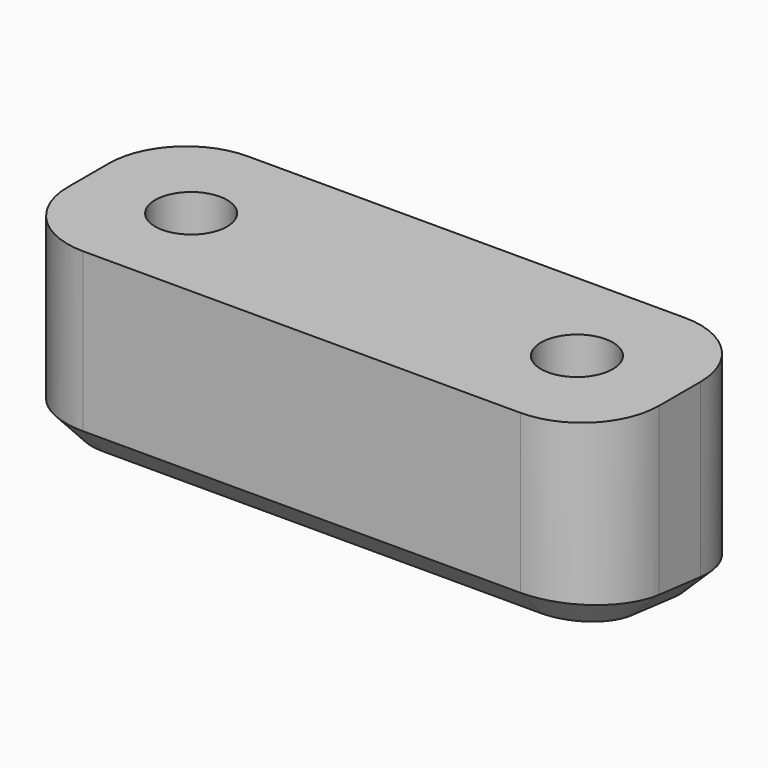
from build123d import *

# Parameters (mm, degrees)
SKETCH014_W     = 23
SKETCH014_H     = 8
PAD005_DEPTH    = 8
SKETCH015_R     = 1.4
POCKET011_DEPTH = 4
POCKET012_DEPTH = 23.001
FILLET002_R     = 3
CHAMFER_SIZE    = 1


with BuildPart() as part:
    # Sketch014 (on ShapeBinder) → Pad005 (new body)
    with BuildSketch(Plane(origin=(0, 0, 0), x_dir=(1, 0, 0), z_dir=(0, 0, -1))):
        with Locations((40.884375, 38.575)):
            Rectangle(SKETCH014_W, SKETCH014_H)
    extrude(amount=PAD005_DEPTH)

    # Sketch015 (on Face5 of Pad005) → Pocket011 (cut)
    with BuildSketch(Plane.XY):
        with Locations((33.384375, -38.575)):
            Circle(SKETCH015_R)
        with Locations((48.384375, -38.575)):
            Circle(SKETCH015_R)
    extrude(amount=-POCKET011_DEPTH, mode=Mode.SUBTRACT)

    # Sketch016 (on Face2 of Pocket011) → Pocket012 (cut, through all)
    with BuildSketch(Plane(origin=(29.384375, 0, 0), x_dir=(0, -1, 0), z_dir=(-1, 0, 0))):
        Polygon((34.575, -8), (42.575, -7.159166), (42.575, -8), align=None)
    extrude(amount=-POCKET012_DEPTH, mode=Mode.SUBTRACT)

    # Fillet002
    fillet002_edges = [part.edges().sort_by_distance(p)[0] for p in [
        (29.384375, -34.575, -4),
        (52.384375, -34.575, -4),
        (52.384375, -42.575, -3.579583),
        (29.384375, -42.575, -3.579583),
    ]]
    fillet(fillet002_edges, radius=FILLET002_R)

    # Chamfer
    chamfer_edges = [part.edges().sort_by_distance(p)[0] for p in [
        (40.884375, -42.575, -7.159166),
    ]]
    chamfer(chamfer_edges, length=CHAMFER_SIZE)


solid = part.part
